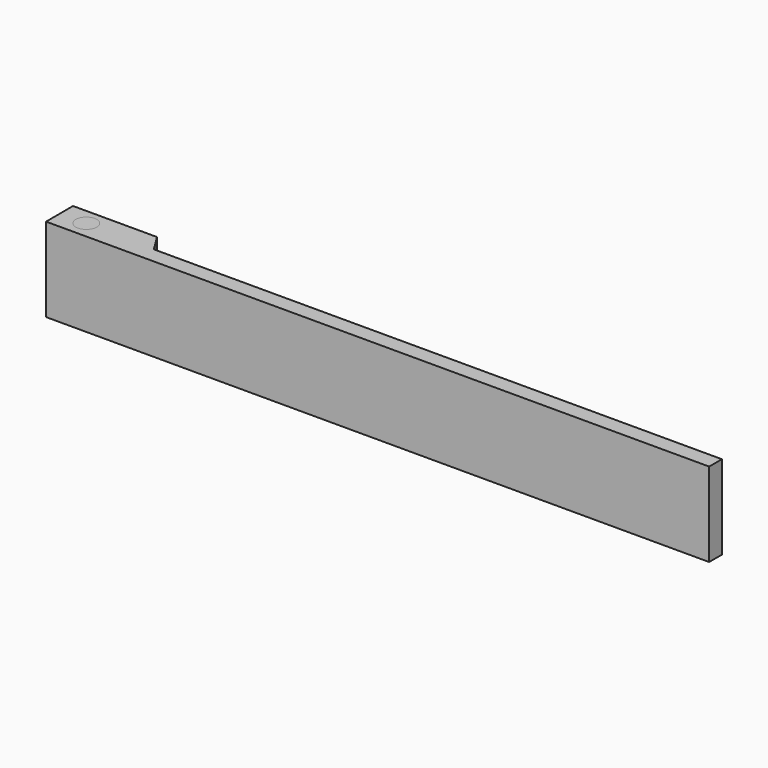
from build123d import *

# Parameters (mm, degrees)
F2_DEPTH = 25.4


with BuildPart() as f2:
    # F0 (on Top) → F2 (new body)
    with BuildSketch(Plane.XY):
        Polygon((-124.0930631757, -11.4529291168), (-124.0440234542, -21.6724649072), (76.3619765458, -21.6724649072), (76.3619765458, -16.8457691168), (45.5234815489, -16.8457691168), (34.1813331581, -16.8457691168), (22.8391847673, -16.8457691168), (11.4970363766, -16.8457691168), (0.1548879858, -16.8457691168), (-11.187260405, -16.8457691168), (-22.5294087958, -16.8457691168), (-33.8715571866, -16.8457691168), (-45.2137055773, -16.8457691168), (-56.5558539681, -16.8457691168), (-67.8980023589, -16.8457691168), (-79.2401507497, -16.8457691168), (-95.3404855502, -16.8457691168), (-98.6930631757, -11.4529291168), align=None)
    extrude(amount=F2_DEPTH)


with BuildPart() as f2b:
    # F1 (on face) → F2, piece 2 (new body)
    with BuildSketch(Plane.XY):
        with BuildLine():
            Line((-112.9776063571, -16.8457691168), (-119.2608204474, -16.8457691168))
            ThreePointArc((-119.2608204474, -16.8457691168), (-116.1192134023, -19.5614977658), (-112.9776063571, -16.8457691168))
        make_face()
        with BuildLine():
            ThreePointArc((-112.9776063571, -16.8457691168), (-112.9525726452, -16.6167396295), (-112.9442134023, -16.3864977658))
            ThreePointArc((-112.9442134023, -16.3864977658), (-116.349455266, -13.2198570087), (-119.2608204474, -16.8457691168))
            Line((-119.2608204474, -16.8457691168), (-112.9776063571, -16.8457691168))
        make_face()
        with BuildLine():
            Line((-112.9776063571, -16.8457691168), (-119.2608204474, -16.8457691168))
            ThreePointArc((-119.2608204474, -16.8457691168), (-116.1192134023, -19.5614977658), (-112.9776063571, -16.8457691168))
        make_face()
        with BuildLine():
            ThreePointArc((-112.9776063571, -16.8457691168), (-112.9525726452, -16.6167396295), (-112.9442134023, -16.3864977658))
            ThreePointArc((-112.9442134023, -16.3864977658), (-116.349455266, -13.2198570087), (-119.2608204474, -16.8457691168))
            Line((-119.2608204474, -16.8457691168), (-112.9776063571, -16.8457691168))
        make_face()
        with BuildLine():
            Line((-112.9776063571, -16.8457691168), (-119.2608204474, -16.8457691168))
            ThreePointArc((-119.2608204474, -16.8457691168), (-116.1192134023, -19.5614977658), (-112.9776063571, -16.8457691168))
        make_face()
        with BuildLine():
            ThreePointArc((-112.9776063571, -16.8457691168), (-112.9525726452, -16.6167396295), (-112.9442134023, -16.3864977658))
            ThreePointArc((-112.9442134023, -16.3864977658), (-116.349455266, -13.2198570087), (-119.2608204474, -16.8457691168))
            Line((-119.2608204474, -16.8457691168), (-112.9776063571, -16.8457691168))
        make_face()
    extrude(amount=F2_DEPTH)


solid = Compound([f2.part, f2b.part])
